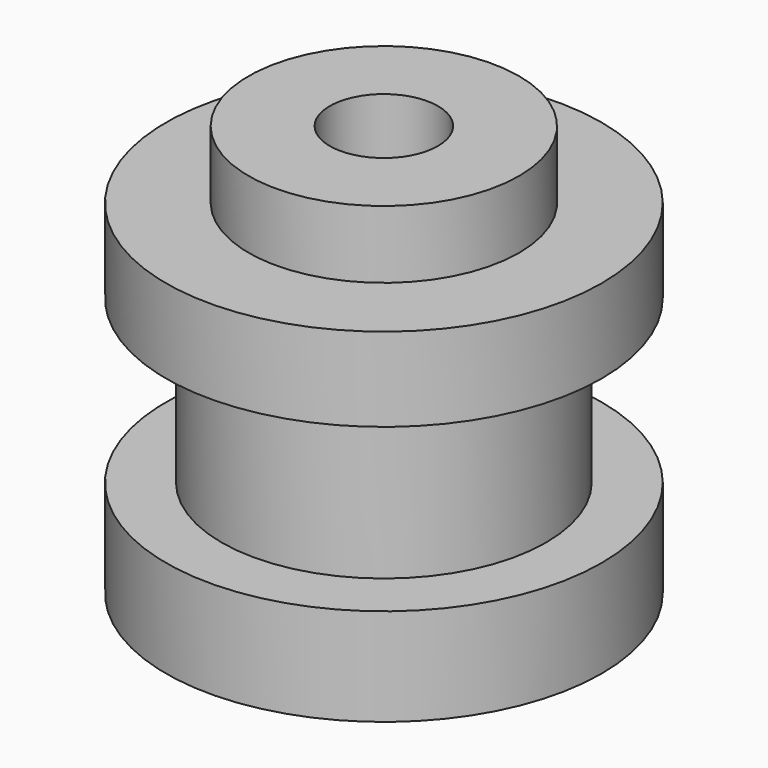
from build123d import *

# Parameters (mm, degrees)
F0_R     = 8.05
F1_DEPTH = 3.6
F2_R     = 6
F3_DEPTH = 6
F4_R     = 8.05
F5_DEPTH = 3.1
F6_R     = 5
F7_DEPTH = 2.5
F8_R     = 2
F9_DEPTH = 15.201


with BuildPart() as f1:
    # F0 (on Top) → F1 (new body)
    with BuildSketch(Plane.XY):
        Circle(F0_R)
    extrude(amount=F1_DEPTH)

    # F2 (on face) → F3 (join)
    with BuildSketch(Plane.XY.offset(3.6)):
        Circle(F2_R)
    extrude(amount=F3_DEPTH)

    # F4 (on face) → F5 (join)
    with BuildSketch(Plane.XY.offset(9.6)):
        Circle(F4_R)
    extrude(amount=F5_DEPTH)

    # F6 (on face) → F7 (join)
    with BuildSketch(Plane.XY.offset(12.7)):
        Circle(F6_R)
    extrude(amount=F7_DEPTH)

    # F8 (on face) → F9 (cut, through all)
    with BuildSketch(Plane(origin=(0, 0, 0), x_dir=(1, 0, 0), z_dir=(0, 0, -1))):
        Circle(F8_R)
    extrude(amount=-F9_DEPTH, mode=Mode.SUBTRACT)


solid = f1.part
